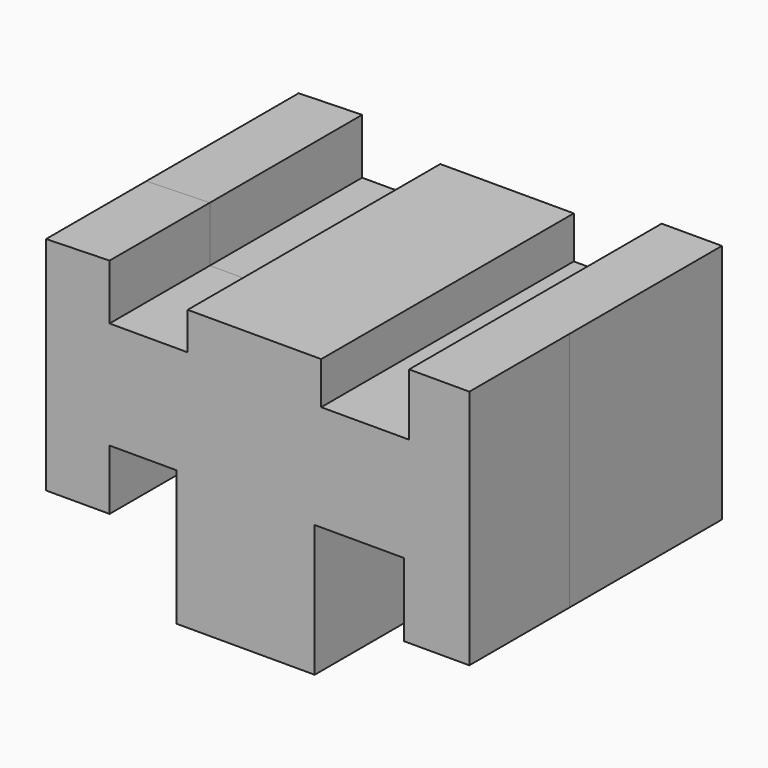
from build123d import *

# Parameters (mm, degrees)
F1_DEPTH = 39.619103
F2_DEPTH = 60.171394


with BuildPart() as f1:
    # F0 (on Front) → F1 (new body)
    with BuildSketch(Plane.XZ):
        Polygon((-42.707711, 38.334027), (-62.775195, 37.819475), (-62.775195, -32.159433), (-42.707711, -32.159433), (-42.707711, -13.121054), (-21.611124, -13.121054), (-21.611124, -55.828765), (22.125691, -55.828765), (22.125691, -14.150158), (50.425977, -14.150158), (50.425977, -37.304938), (71.008027, -37.304938), (71.008027, 38.848579), (51.969647, 38.848579), (51.969647, 19.295648), (24.183899, 19.295648), (24.183899, 32.67397), (-18.009275, 32.67397), (-18.009275, 20.839296), (-42.707711, 20.839296), align=None)
    extrude(amount=F1_DEPTH)

    # F1_face (on face) → F2 (join)
    with BuildSketch(Plane(origin=(3.907176, 0, -4.197863), x_dir=(1, 0, 0), z_dir=(0, 1, 0))):
        Polygon((-66.682371, -42.017338), (-46.614888, -42.53189), (-46.614888, -25.03716), (-21.916452, -25.03716), (-21.916452, -36.871833), (20.276723, -36.871833), (20.276723, -23.493511), (48.062471, -23.493511), (48.062471, -43.046442), (67.10085, -43.046442), (67.10085, 33.107074), (46.5188, 33.107074), (46.5188, 9.952294), (18.218515, 9.952294), (18.218515, 51.630902), (-25.518301, 51.630902), (-25.518301, 8.92319), (-46.614888, 8.92319), (-46.614888, 27.961569), (-66.682371, 27.961569), align=None)
    extrude(amount=F2_DEPTH)


solid = f1.part
